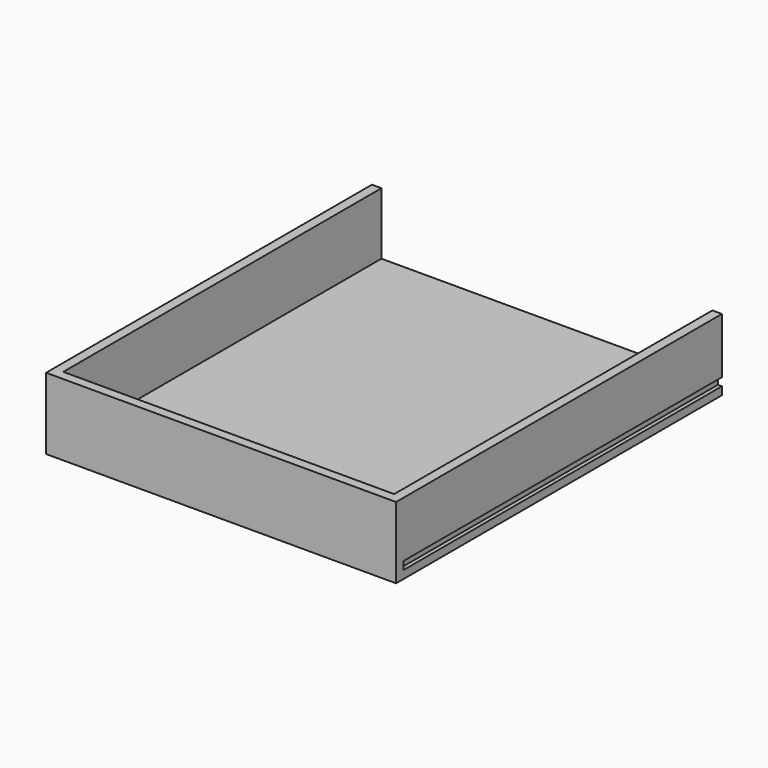
from build123d import *

# Parameters (mm, degrees)
F1_DEPTH = 500
F2_W     = 440
F2_H     = 90
F3_DEPTH = 12


with BuildPart() as f1:
    # F0 (on Front) → F1 (new body)
    with BuildSketch(Plane.XZ):
        Polygon((208, 12), (-208, 12), (-208, 90), (-220, 90), (-220, 20), (-215, 20), (-215, 10), (-220, 10), (-220, 0), (220, 0), (220, 10), (215, 10), (215, 20), (220, 20), (220, 90), (208, 90), align=None)
    extrude(amount=-F1_DEPTH)

    # F2 (on Front) → F3 (join)
    with BuildSketch(Plane.XZ):
        with Locations((0, 45)):
            Rectangle(F2_W, F2_H)
    extrude(amount=F3_DEPTH)


solid = f1.part
